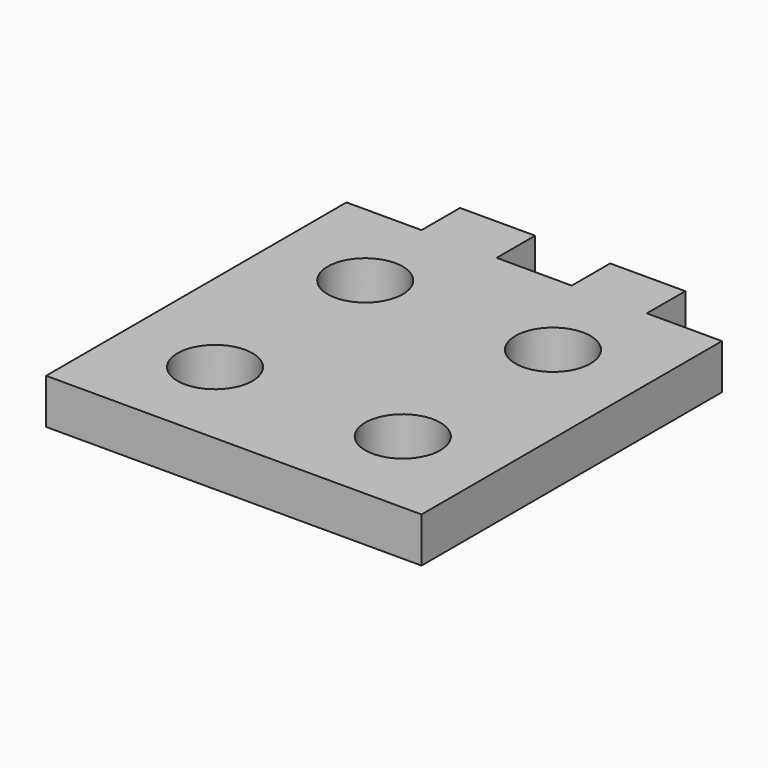
from build123d import *

# Parameters (mm, degrees)
F0_R     = 2.5
F1_DEPTH = 1.5


with BuildPart() as f1:
    # F0 (on Top) → F1 (new body, symmetric)
    with BuildSketch(Plane.XY):
        Polygon((12.5, -12.5), (12.5, 12.5), (7.5, 12.5), (7.5, 15.7), (2.5, 15.7), (2.5, 12.5), (-2.5, 12.5), (-2.5, 15.7), (-7.5, 15.7), (-7.5, 12.5), (-12.5, 12.5), (-12.5, -12.5), align=None)
        with Locations((-6.25, -6.25)):
            Circle(F0_R, mode=Mode.SUBTRACT)
        with Locations((6.25, -6.25)):
            Circle(F0_R, mode=Mode.SUBTRACT)
        with Locations((-6.25, 6.25)):
            Circle(F0_R, mode=Mode.SUBTRACT)
        with Locations((6.25, 6.25)):
            Circle(F0_R, mode=Mode.SUBTRACT)
    extrude(amount=F1_DEPTH, both=True)


solid = f1.part
